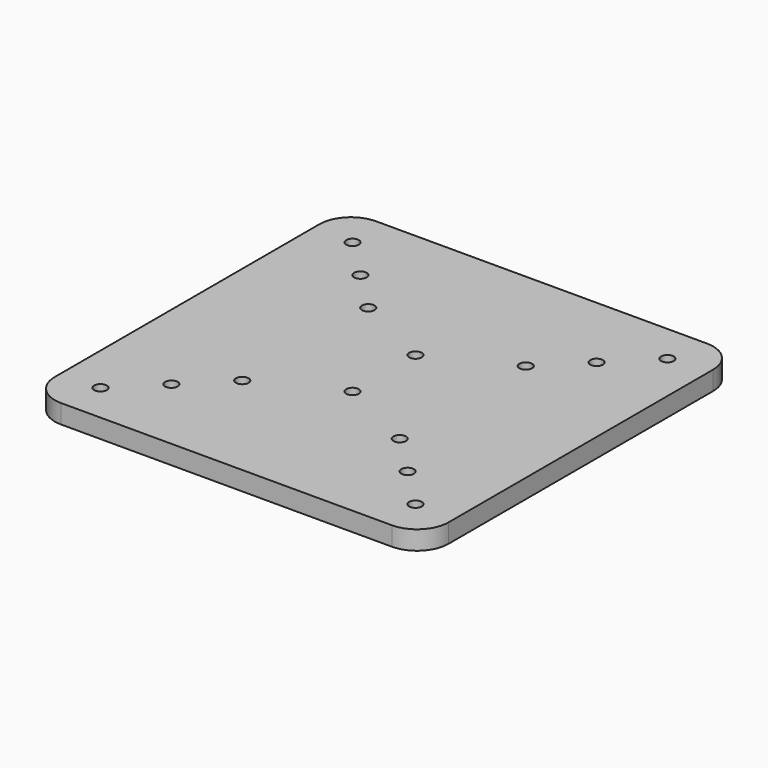
from build123d import *

# Parameters (mm, degrees)
F0_W     = 125
F0_H     = 125
F0_R     = 2
F1_DEPTH = 6
F2_R     = 10


with BuildPart() as f1:
    # F0 (on Top) → F1 (new body)
    with BuildSketch(Plane.XY):
        with Locations((8.230951, 13.677106)):
            Rectangle(F0_W, F0_H)
        with Locations((-41.769049, -36.322894)):
            Circle(F0_R, mode=Mode.SUBTRACT)
        with Locations((-29.269049, -23.822894)):
            Circle(F0_R, mode=Mode.SUBTRACT)
        with Locations((-16.769049, -11.322894)):
            Circle(F0_R, mode=Mode.SUBTRACT)
        with Locations((58.230951, -36.322894)):
            Circle(F0_R, mode=Mode.SUBTRACT)
        with Locations((45.730951, -23.822894)):
            Circle(F0_R, mode=Mode.SUBTRACT)
        with Locations((33.230951, -11.322894)):
            Circle(F0_R, mode=Mode.SUBTRACT)
        with Locations((8.230951, 1.177106)):
            Circle(F0_R, mode=Mode.SUBTRACT)
        with Locations((-16.769049, 38.677106)):
            Circle(F0_R, mode=Mode.SUBTRACT)
        with Locations((-29.269049, 51.177106)):
            Circle(F0_R, mode=Mode.SUBTRACT)
        with Locations((-41.769049, 63.677106)):
            Circle(F0_R, mode=Mode.SUBTRACT)
        with Locations((8.230951, 26.177108)):
            Circle(F0_R, mode=Mode.SUBTRACT)
        with Locations((33.230951, 38.677106)):
            Circle(F0_R, mode=Mode.SUBTRACT)
        with Locations((45.730951, 51.177106)):
            Circle(F0_R, mode=Mode.SUBTRACT)
        with Locations((58.230951, 63.677106)):
            Circle(F0_R, mode=Mode.SUBTRACT)
    extrude(amount=F1_DEPTH)

    # F2
    f2_edges = [f1.edges().sort_by_distance(p)[0] for p in [
        (-54.269049, 76.177106, 3),
        (-54.269049, -48.822894, 3),
        (70.730951, -48.822894, 3),
        (70.730951, 76.177106, 3),
    ]]
    fillet(f2_edges, radius=F2_R)


solid = f1.part
